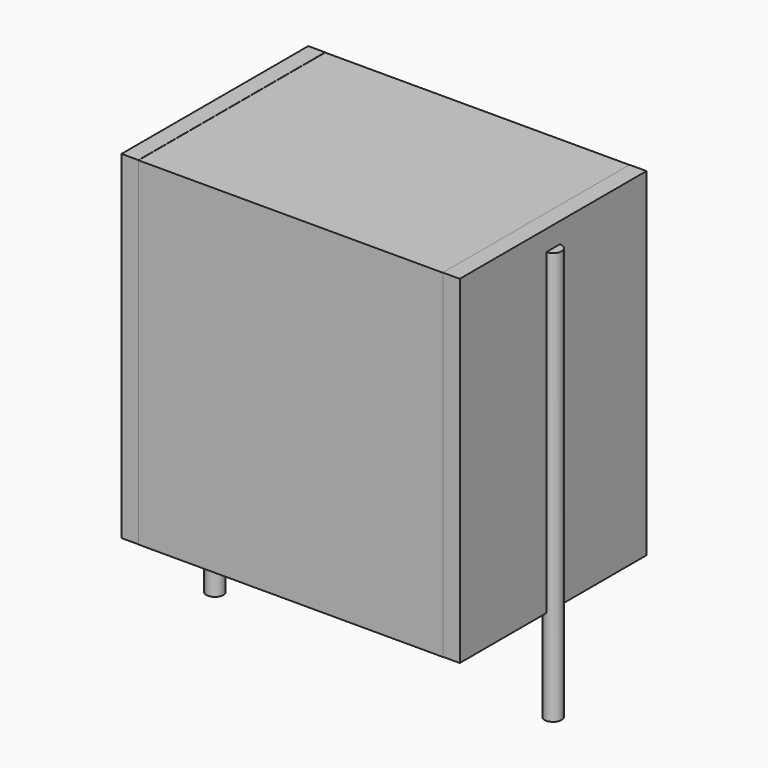
from build123d import *

# Parameters (mm, degrees)
SKETCH_W          = 9
SKETCH_H          = 6.9
PAD_DEPTH         = 10
SKETCH001_R       = 0.25
PAD001_DEPTH      = 9
PAD001_DEPTH_BACK = 3.2
SKETCH002_W       = 0.5
SKETCH002_H       = 6.9
PAD002_DEPTH      = 10


with BuildPart() as pad:
    # Sketch → Pad (new body)
    with BuildSketch(Plane.XY.offset(0.1)):
        with Locations((5, 0)):
            Rectangle(SKETCH_W, SKETCH_H)
    extrude(amount=PAD_DEPTH)


with BuildPart() as pad001:
    # Sketch001 → Pad001 (new body, two sides)
    with BuildSketch(Plane.XY.offset(0.5)) as pad001_sk:
        Circle(SKETCH001_R)
        with Locations((10, 0)):
            Circle(SKETCH001_R)
    extrude(amount=PAD001_DEPTH)
    extrude(pad001_sk.sketch, amount=-PAD001_DEPTH_BACK)


with BuildPart() as pad002:
    # Sketch002 → Pad002 (new body)
    with BuildSketch(Plane.XY.offset(0.105)):
        with Locations((0.25, 0)):
            Rectangle(SKETCH002_W, SKETCH002_H)
        with Locations((9.75, 0)):
            Rectangle(SKETCH002_W, SKETCH002_H)
    extrude(amount=PAD002_DEPTH)


solid = Compound([pad.part, pad001.part, pad002.part])
